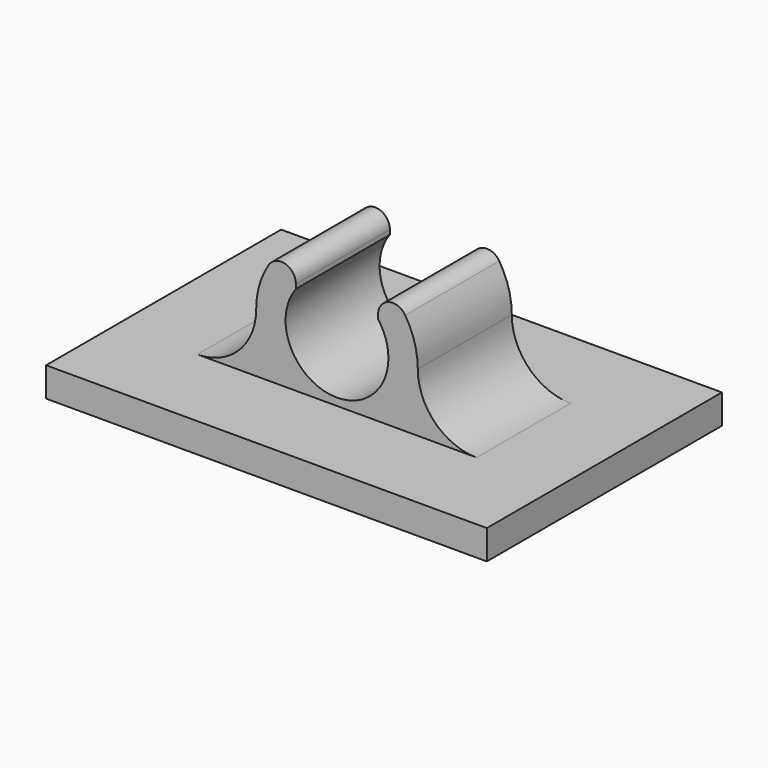
from build123d import *

# Parameters (mm, degrees)
F1_W     = 15
F1_H     = 10
F2_DEPTH = 1
F3_R     = 2.75
F4_DEPTH = 2
F6_DEPTH = 4
F7_R     = 2
F8_R     = 0.5


with BuildPart() as f2:
    # F1 (on Top) → F2 (new body)
    with BuildSketch(Plane.XY):
        Rectangle(F1_W, F1_H)
    extrude(amount=F2_DEPTH)

    # F3 (on Front) → F4 (join, symmetric)
    with BuildSketch(Plane.XZ):
        with Locations((0, 3)):
            Circle(F3_R)
    extrude(amount=F4_DEPTH, both=True)

    # F5 (on face) → F6 (cut, through all)
    with BuildSketch(Plane.XZ.offset(2)):
        with BuildLine():
            ThreePointArc((-1.4, 4.05), (-0.5533985905, 1.3398042284), (1.75, 3))
            ThreePointArc((1.75, 3), (1.6601957716, 3.5533985905), (1.4, 4.05))
            Line((1.4, 4.05), (1.4, 3.103264831))
            Line((1.4, 3.103264831), (-1.4, 3.103264831))
            Line((-1.4, 3.103264831), (-1.4, 4.05))
        make_face()
        with BuildLine():
            Line((1.4, 3.103264831), (1.4, 4.05))
            ThreePointArc((1.4, 4.05), (0, 4.75), (-1.4, 4.05))
            Line((-1.4, 4.05), (-1.4, 3.103264831))
            Line((-1.4, 3.103264831), (1.4, 3.103264831))
        make_face()
        with BuildLine():
            ThreePointArc((-1.4, 4.05), (0, 4.75), (1.4, 4.05))
            Line((1.4, 4.05), (1.4, 5.3669600757))
            ThreePointArc((1.4, 5.3669600757), (0, 5.75), (-1.4, 5.3669600757))
            Line((-1.4, 5.3669600757), (-1.4, 4.05))
        make_face()
    extrude(amount=-F6_DEPTH, mode=Mode.SUBTRACT)

    # F7
    f7_edges = [f2.edges().sort_by_distance(p)[0] for p in [
        (-1.887459, 0, 1),
        (1.887459, 0, 1),
    ]]
    fillet(f7_edges, radius=F7_R)

    # F8
    f8_edges = [f2.edges().sort_by_distance(p)[0] for p in [
        (-1.4, 0, 5.36696),
        (1.4, 0, 5.36696),
    ]]
    fillet(f8_edges, radius=F8_R)


solid = f2.part
